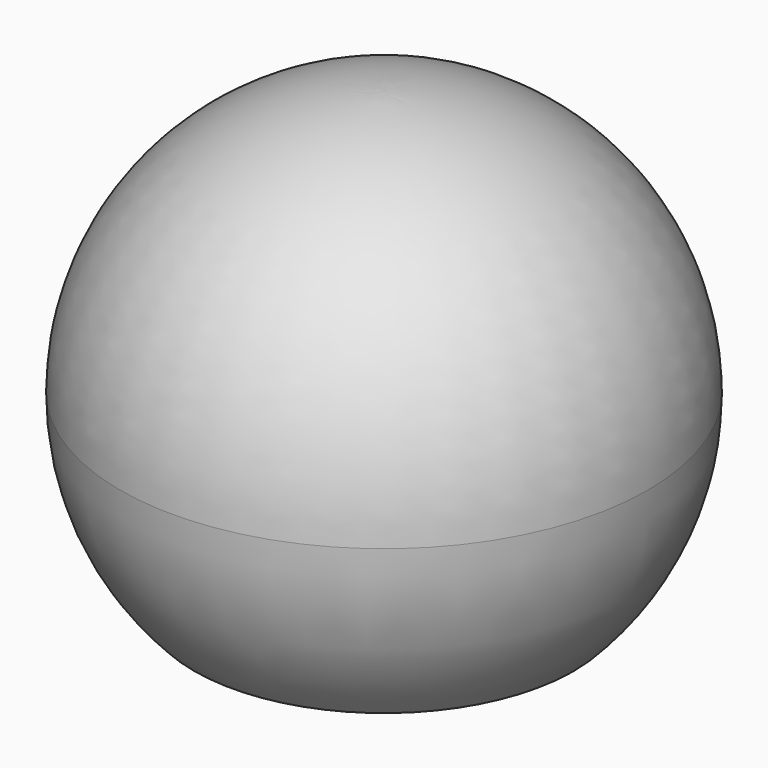
from build123d import *

# Parameters (mm, degrees)
F2_W     = 41.035349
F2_H     = 12.342287
F3_DEPTH = 25.4
F4_T     = -1


with BuildPart() as f1:
    # F0 (on Front) → F1 (revolve)
    with BuildSketch(Plane.XZ):
        with BuildLine():
            ThreePointArc((0, -13.5), (9.545942, -9.545942), (13.5, 0))
            ThreePointArc((13.5, 0), (9.545942, 9.545942), (0, 13.5))
            Line((0, 13.5), (0, -13.5))
        make_face()
    revolve(axis=Axis((0, 0, 0), (0, 0, -1)))

    # F2 (on Front) → F3 (cut, symmetric)
    with BuildSketch(Plane.XZ):
        with Locations((0.659743, -15.546183)):
            Rectangle(F2_W, F2_H)
    extrude(amount=F3_DEPTH, both=True, mode=Mode.SUBTRACT)

    # F4
    f4_openings = [f1.faces().sort_by_distance(p)[0] for p in [
        (0, 0, -9.37504),
    ]]
    offset(amount=F4_T, openings=f4_openings)


solid = f1.part
